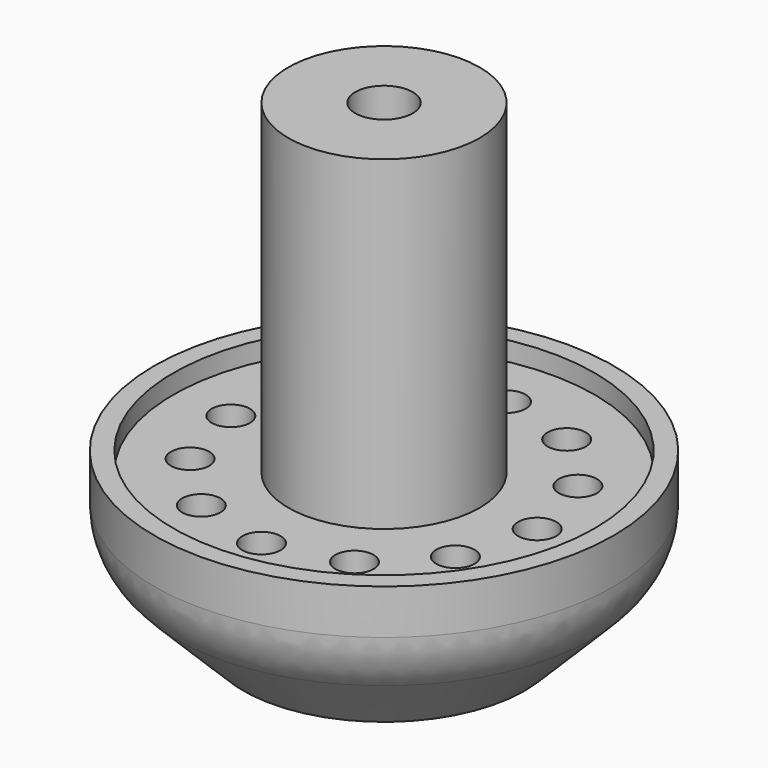
from build123d import *

# Parameters (mm, degrees)
SKETCH001_R        = 1.5
POCKET_DEPTH       = 24.646751
SKETCH002_R        = 1
POCKET001_DEPTH    = 5
POLARPATTERN_COUNT = 12
FILLET_R           = 4


with BuildPart() as part:
    # Sketch → Revolution (revolve)
    with BuildSketch(Plane.XZ):
        Polygon((0, -4.645751), (7.354249, -4.645751), (12, 0), (12, 4), (11, 4), (11, 3), (5, 3), (5, 20), (0, 20), align=None)
    revolve(axis=Axis((0, 0, 0), (0, 0, 1)))

    # Sketch001 (on Face8 of Revolution) → Pocket (cut, through all)
    with BuildSketch(Plane(origin=(0, 0, 20), x_dir=(-1, 0, 0), z_dir=(0, 0, 1))):
        Circle(SKETCH001_R)
    extrude(amount=-POCKET_DEPTH, mode=Mode.SUBTRACT)

    # Sketch002 (on Face9 of Pocket) → Pocket001 (cut)
    with BuildSketch(Plane(origin=(0, 0, 3), x_dir=(-1, 0, 0), z_dir=(0, 0, 1))):
        with Locations((-8, 0)):
            Circle(SKETCH002_R)
    pocket001 = extrude(amount=-POCKET001_DEPTH, mode=Mode.SUBTRACT)

    # PolarPattern: Pocket001 ×12 about axis
    polarpattern_axis = Axis((0, 0, 3), (0, 0, 1))
    for i in range(1, POLARPATTERN_COUNT):
        add(pocket001.rotate(polarpattern_axis, i * 360 / POLARPATTERN_COUNT), mode=Mode.SUBTRACT)

    # Fillet
    fillet_edges = [part.edges().sort_by_distance(p)[0] for p in [
        (-12, 0, 0),
    ]]
    fillet(fillet_edges, radius=FILLET_R)


solid = part.part
